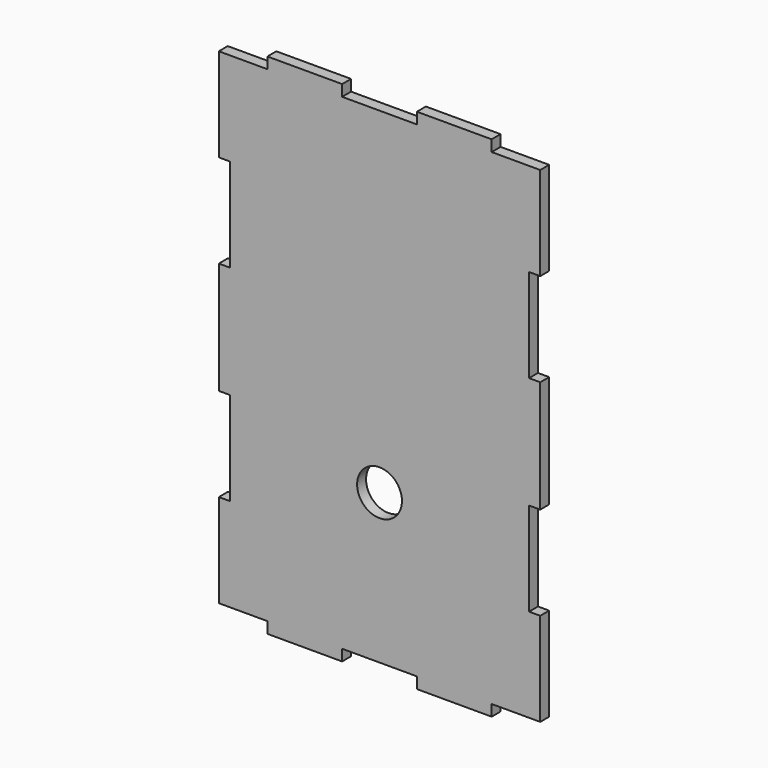
from build123d import *

# Parameters (mm, degrees)
F0_R     = 6
F1_DEPTH = 3


with BuildPart() as f1:
    # F0 (on Front) → F1 (new body)
    with BuildSketch(Plane.XZ):
        Polygon((-30, 65), (-40, 65), (-43, 65), (-43, 40), (-40, 40), (-40, 15), (-43, 15), (-43, 0), (-43, -15), (-40, -15), (-40, -40), (-43, -40), (-43, -65), (-40, -65), (-30, -65), (-30, -68), (-10, -68), (-10, -65), (0, -65), (10, -65), (10, -68), (30, -68), (30, -65), (40, -65), (43, -65), (43, -40), (40, -40), (40, -15), (43, -15), (43, 0), (43, 15), (40, 15), (40, 40), (43, 40), (43, 65), (40, 65), (30, 65), (30, 68), (10, 68), (10, 65), (0, 65), (-10, 65), (-10, 68), (-30, 68), align=None)
        with Locations((0, -25)):
            Circle(F0_R, mode=Mode.SUBTRACT)
    extrude(amount=F1_DEPTH)


solid = f1.part
